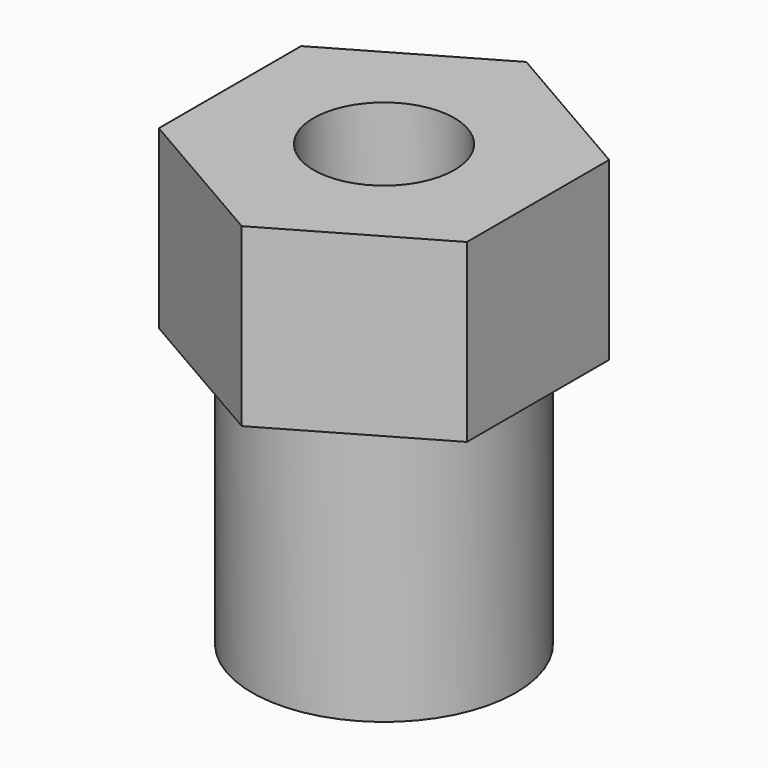
from build123d import *

# Parameters (mm, degrees)
F0_R     = 0.8
F1_DEPTH = 2
F2_R     = 1.5
F3_DEPTH = 3
F5_D     = 2.6
F5_DEPTH = 3
F5_TIP   = 0.7811188047


with BuildPart() as f1:
    # F0 (on Top) → F1 (new body)
    with BuildSketch(Plane.XY):
        Polygon((1.75, -1.0103629711), (1.75, 1.0103629711), (0, 2.0207259422), (-1.75, 1.0103629711), (-1.75, -1.0103629711), (0, -2.0207259422), align=None)
        Circle(F0_R, mode=Mode.SUBTRACT)
    extrude(amount=F1_DEPTH)

    # F2 (on face) → F3 (join)
    with BuildSketch(Plane(origin=(0, 0, 0), x_dir=(1, 0, 0), z_dir=(0, 0, -1))):
        Circle(F2_R)
    extrude(amount=F3_DEPTH)

    # F5
    with Locations(Plane(origin=(0, 0, -3), x_dir=(1, 0, 0), z_dir=(0, 0, -1))):
        with Locations((0, 0)):
            Hole(F5_D / 2, depth=F5_DEPTH)
            with Locations((0, 0, -(F5_DEPTH + F5_TIP / 2))):  # 118° drill point
                Cone(0, F5_D / 2, F5_TIP, mode=Mode.SUBTRACT)


solid = f1.part
